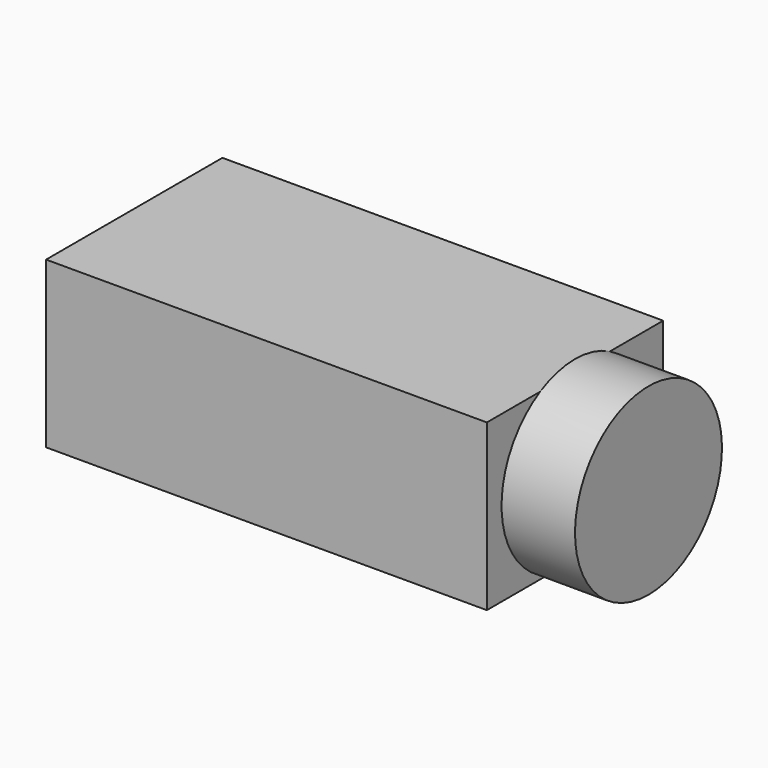
from build123d import *

# Parameters (mm, degrees)
BOX007_W                = 12
BOX007_H                = 6
BOX007_DEPTH            = 4.5
CYLINDER018_R           = 2.5
CYLINDER018_DEPTH       = 2
CYLINDER018_PITCH_ANGLE = 90


with BuildPart() as obj1:
    # Box007 → Box007 (new body)
    with BuildSketch(Plane.XY):
        with Locations((6, 3)):
            Rectangle(BOX007_W, BOX007_H)
    extrude(amount=BOX007_DEPTH)


with BuildPart() as audio_jack:
    # Cylinder018 → Cylinder018 (new body)
    with BuildSketch(Plane.XY):
        Circle(CYLINDER018_R)
    extrude(amount=CYLINDER018_DEPTH)


with BuildPart() as audio_jack_1:
    # Cylinder018 pitch: moved
    add(audio_jack.part.rotate(Axis((0, 0, 0), (0, 1, 0)), CYLINDER018_PITCH_ANGLE))


with BuildPart() as audio_jack_2:
    # Cylinder018 placement: moved
    add(audio_jack_1.part.moved(Location((12, 3, 2.3))))

    # Fusion010: union obj1
    add(obj1.part)


with BuildPart() as audio_jack_3:
    # Fusion010 placement: moved
    add(audio_jack_2.part.moved(Location((8, 1.6, 24))))


solid = audio_jack_3.part
